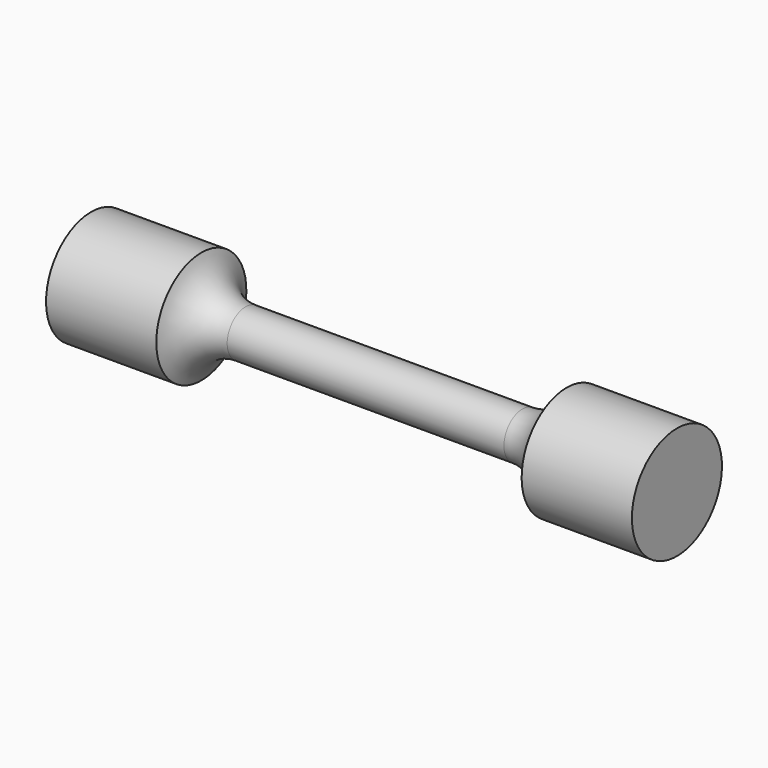
from build123d import *


with BuildPart() as f1:
    # F0 (on Front) → F1 (revolve)
    with BuildSketch(Plane.XZ):
        with BuildLine():
            Line((12, 2), (0, 2))
            Line((0, 2), (-12, 2))
            ThreePointArc((-12, 2), (-14.400002, 2.800001), (-15.840001, 4.880004))
            Line((-15.840001, 4.880004), (-25.4, 4.880004))
            Line((-25.4, 4.880004), (-25.4, 0))
            Line((-25.4, 0), (0, 0))
            Line((0, 0), (25.4, 0))
            Line((25.4, 0), (25.4, 4.880004))
            Line((25.4, 4.880004), (15.840001, 4.880004))
            ThreePointArc((15.840001, 4.880004), (14.400002, 2.800001), (12, 2))
        make_face()
    revolve(axis=Axis((12.7, 0, 0), (1, 0, 0)))


solid = f1.part
